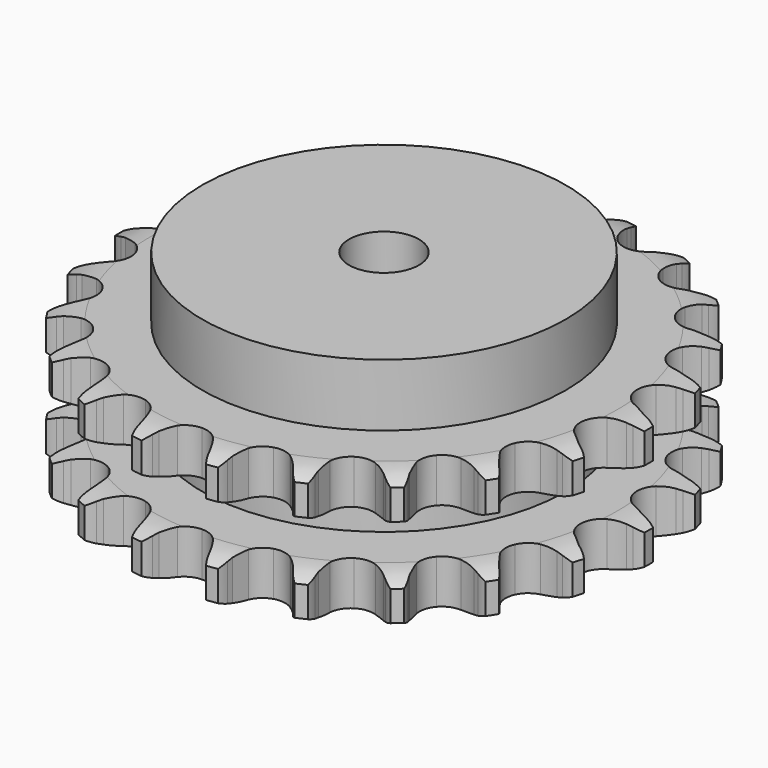
from build123d import *

# Parameters (mm, degrees)
PAD_DEPTH         = 47.7
SKETCH001_R       = 65
PAD001_DEPTH      = 70
SKETCH002_R       = 12.5
POCKET_DEPTH      = 0.0010001
POCKET_DEPTH_BACK = 70.001


with BuildPart() as part:
    # Sprocket → Pad (new body)
    with BuildSketch(Plane.XY):
        with BuildLine():
            ThreePointArc((-13.8466693465, 96.3057006854), (-11.5343062724, 93.9227861729), (-9.8961420657, 91.0345821301))
            Line((-9.8961420657, 91.0345821301), (-9.1277466913, 89.158497466))
            ThreePointArc((-9.1277466913, 89.158497466), (-7.8976005469, 86.6514853664), (-6.3415374532, 84.3326415051))
            ThreePointArc((-6.3415374532, 84.3326415051), (-3.5319132851, 82.040796764), (0, 81.2209621283))
            ThreePointArc((0, 81.2209621283), (3.5319132851, 82.040796764), (6.3415374532, 84.3326415051))
            ThreePointArc((6.3415374532, 84.3326415051), (7.8976005469, 86.6514853664), (9.1277466913, 89.158497466))
            Line((9.1277466913, 89.158497466), (9.8961420657, 91.0345821301))
            ThreePointArc((9.8961420657, 91.0345821301), (11.5343062724, 93.9227861729), (13.8466693465, 96.3057006854))
            ThreePointArc((13.8466693465, 96.3057006854), (15.3940208703, 93.3678429927), (16.1521268066, 90.1351073168))
            Line((16.1521268066, 90.1351073168), (16.36084264, 88.1185352702))
            ThreePointArc((16.36084264, 88.1185352702), (16.8348522932, 85.3665025573), (17.6745900882, 82.7031945314))
            ThreePointArc((17.6745900882, 82.7031945314), (19.7247174572, 79.7126230051), (22.8825893295, 77.9309424723))
            ThreePointArc((22.8825893295, 77.9309424723), (26.5024094181, 77.7225130844), (29.8439113446, 79.1299594095))
            Line((29.8439113446, 79.1299594095), (33.8768602705, 82.9753684431))
            ThreePointArc((33.8768602705, 82.9753684431), (34.4903939213, 83.7826621892), (35.1426843625, 84.5589765028))
            ThreePointArc((35.1426843625, 84.5589765028), (37.528192518, 86.8686637977), (40.4182332385, 88.5035855679))
            ThreePointArc((40.4182332385, 88.5035855679), (41.0752159938, 85.2487924532), (40.8918464254, 81.9334221629))
            Line((40.8918464254, 81.9334221629), (40.5239738023, 79.9397334079))
            ThreePointArc((40.5239738023, 79.9397334079), (40.2034455213, 77.1656334051), (40.2588274554, 74.3736265917))
            ThreePointArc((40.2588274554, 74.3736265917), (41.3833688984, 70.9266065996), (43.9113673596, 68.3274213304))
            ThreePointArc((43.9113673596, 68.3274213304), (47.3258379559, 67.1076136283), (50.9285090276, 67.5166386065))
            Line((50.9285090276, 67.5166386065), (55.881472104, 70.0700685425))
            ThreePointArc((55.881472104, 70.0700685425), (56.6975942622, 70.6718088153), (57.5421753738, 71.2329054907))
            ThreePointArc((57.5421753738, 71.2329054907), (60.4817677946, 72.7769589094), (63.7153522499, 73.5314362988))
            ThreePointArc((63.7153522499, 73.5314362988), (63.4287414013, 70.2233917432), (62.31875184, 67.0939784221))
            Line((62.31875184, 67.0939784221), (61.4040936125, 65.2846897648))
            ThreePointArc((61.4040936125, 65.2846897648), (60.3149946922, 62.7132635562), (59.5815340507, 60.0187497425))
            ThreePointArc((59.5815340507, 60.0187497425), (59.6893859079, 56.3945383442), (61.3827075571, 53.1884188711))
            ThreePointArc((61.3827075571, 53.1884188711), (64.3152085602, 51.0560544204), (67.8871817925, 50.4335212806))
            Line((67.8871817925, 50.4335212806), (73.3588994076, 51.4881084113))
            ThreePointArc((73.3588994076, 51.4881084113), (74.3114927096, 51.8355457927), (75.2799415528, 52.1359681142))
            ThreePointArc((75.2799415528, 52.1359681142), (78.5354699434, 52.7892976316), (81.8506323518, 52.6022073691))
            ThreePointArc((81.8506323518, 52.6022073691), (80.6436474056, 49.5089094688), (78.6969626044, 46.8189795728))
            Line((78.6969626044, 46.8189795728), (77.3096189424, 45.34066882))
            ThreePointArc((77.3096189424, 45.34066882), (75.5401817004, 43.1802380641), (74.0772991022, 40.8015107345))
            ThreePointArc((74.0772991022, 40.8015107345), (73.1597238576, 37.2937199833), (73.8811858454, 33.7404070386))
            ThreePointArc((73.8811858454, 33.7404070386), (76.0941434641, 30.8682373254), (79.3460388293, 29.2645800002))
            Line((79.3460388293, 29.2645800002), (84.8932249633, 28.7348879482))
            ThreePointArc((84.8932249633, 28.7348879482), (85.9051159651, 28.7998751278), (86.9189745742, 28.8152846656))
            ThreePointArc((86.9189745742, 28.8152846656), (90.2266953858, 28.5249614096), (93.3548610051, 27.4114604357))
            ThreePointArc((93.3548610051, 27.4114604357), (91.3252847034, 24.78350979), (88.6996134875, 22.7509854417))
            Line((88.6996134875, 22.7509854417), (86.9519787236, 21.7234165387))
            ThreePointArc((86.9519787236, 21.7234165387), (84.6455524419, 20.1490064868), (82.5717619351, 18.2787759826))
            ThreePointArc((82.5717619351, 18.2787759826), (80.703096078, 15.1715862237), (80.3942498448, 11.5589480897))
            ThreePointArc((80.3942498448, 11.5589480897), (81.7083834139, 8.1796592228), (84.3767516892, 5.7247964913))
            Line((84.3767516892, 5.7247964913), (89.5500063119, 3.6537377564))
            ThreePointArc((89.5500063119, 3.6537377564), (90.5392176225, 3.4310098595), (91.5163492027, 3.1601582246))
            ThreePointArc((91.5163492027, 3.1601582246), (94.6082905669, 1.9497024588), (97.2960340224, 0))
            ThreePointArc((97.2960340224, 0), (94.6082905669, -1.9497024588), (91.5163492027, -3.1601582246))
            Line((91.5163492027, -3.1601582246), (89.5500063119, -3.6537377564))
            ThreePointArc((89.5500063119, -3.6537377564), (86.893443931, -4.5145777653), (84.3767516892, -5.7247964913))
            ThreePointArc((84.3767516892, -5.7247964913), (81.7083834139, -8.1796592228), (80.3942498448, -11.5589480897))
            ThreePointArc((80.3942498448, -11.5589480897), (80.703096078, -15.1715862237), (82.5717619351, -18.2787759826))
            Line((82.5717619351, -18.2787759826), (86.9519787236, -21.7234165387))
            ThreePointArc((86.9519787236, -21.7234165387), (87.8383703256, -22.2158154226), (88.6996134875, -22.7509854417))
            ThreePointArc((88.6996134875, -22.7509854417), (91.3252847034, -24.78350979), (93.3548610051, -27.4114604357))
            ThreePointArc((93.3548610051, -27.4114604357), (90.2266953858, -28.5249614096), (86.9189745742, -28.8152846656))
            Line((86.9189745742, -28.8152846656), (84.8932249633, -28.7348879482))
            ThreePointArc((84.8932249633, -28.7348879482), (82.1017453681, -28.8124177761), (79.3460388293, -29.2645800002))
            ThreePointArc((79.3460388293, -29.2645800002), (76.0941434641, -30.8682373254), (73.8811858454, -33.7404070386))
            ThreePointArc((73.8811858454, -33.7404070386), (73.1597238576, -37.2937199833), (74.0772991022, -40.8015107345))
            Line((74.0772991022, -40.8015107345), (77.3096189424, -45.34066882))
            ThreePointArc((77.3096189424, -45.34066882), (78.0213806599, -46.0628474618), (78.6969626044, -46.8189795728))
            ThreePointArc((78.6969626044, -46.8189795728), (80.6436474056, -49.5089094688), (81.8506323518, -52.6022073691))
            ThreePointArc((81.8506323518, -52.6022073691), (78.5354699434, -52.7892976316), (75.2799415528, -52.1359681142))
            Line((75.2799415528, -52.1359681142), (73.3588994076, -51.4881084113))
            ThreePointArc((73.3588994076, -51.4881084113), (70.6586516733, -50.7760470527), (67.8871817925, -50.4335212806))
            ThreePointArc((67.8871817925, -50.4335212806), (64.3152085602, -51.0560544204), (61.3827075571, -53.1884188711))
            ThreePointArc((61.3827075571, -53.1884188711), (59.6893859079, -56.3945383442), (59.5815340507, -60.0187497425))
            Line((59.5815340507, -60.0187497425), (61.4040936125, -65.2846897648))
            ThreePointArc((61.4040936125, -65.2846897648), (61.883562744, -66.1781415458), (62.31875184, -67.0939784221))
            ThreePointArc((62.31875184, -67.0939784221), (63.4287414013, -70.2233917432), (63.7153522499, -73.5314362988))
            ThreePointArc((63.7153522499, -73.5314362988), (60.4817677946, -72.7769589094), (57.5421753738, -71.2329054907))
            Line((57.5421753738, -71.2329054907), (55.881472104, -70.0700685425))
            ThreePointArc((55.881472104, -70.0700685425), (53.4912142432, -68.6261029739), (50.9285090276, -67.5166386065))
            ThreePointArc((50.9285090276, -67.5166386065), (47.3258379559, -67.1076136283), (43.9113673596, -68.3274213304))
            ThreePointArc((43.9113673596, -68.3274213304), (41.3833688984, -70.9266065996), (40.2588274554, -74.3736265917))
            Line((40.2588274554, -74.3736265917), (40.5239738023, -79.9397334079))
            ThreePointArc((40.5239738023, -79.9397334079), (40.7323066104, -80.9320761784), (40.8918464254, -81.9334221629))
            ThreePointArc((40.8918464254, -81.9334221629), (41.0752159938, -85.2487924532), (40.4182332385, -88.5035855679))
            ThreePointArc((40.4182332385, -88.5035855679), (37.528192518, -86.8686637977), (35.1426843625, -84.5589765028))
            Line((35.1426843625, -84.5589765028), (33.8768602705, -82.9753684431))
            ThreePointArc((33.8768602705, -82.9753684431), (31.9902367595, -80.9164801673), (29.8439113446, -79.1299594095))
            ThreePointArc((29.8439113446, -79.1299594095), (26.5024094181, -77.7225130844), (22.8825893295, -77.9309424723))
            ThreePointArc((22.8825893295, -77.9309424723), (19.7247174572, -79.7126230051), (17.6745900882, -82.7031945314))
            Line((17.6745900882, -82.7031945314), (16.36084264, -88.1185352702))
            ThreePointArc((16.36084264, -88.1185352702), (16.2811612396, -89.1293753206), (16.1521268066, -90.1351073168))
            ThreePointArc((16.1521268066, -90.1351073168), (15.3940208703, -93.3678429927), (13.8466693465, -96.3057006854))
            ThreePointArc((13.8466693465, -96.3057006854), (11.5343062724, -93.9227861729), (9.8961420657, -91.0345821301))
            Line((9.8961420657, -91.0345821301), (9.1277466913, -89.158497466))
            ThreePointArc((9.1277466913, -89.158497466), (7.8976005469, -86.6514853664), (6.3415374532, -84.3326415051))
            ThreePointArc((6.3415374532, -84.3326415051), (3.5319132851, -82.040796764), (0, -81.2209621283))
            ThreePointArc((0, -81.2209621283), (-3.5319132851, -82.040796764), (-6.3415374532, -84.3326415051))
            Line((-6.3415374532, -84.3326415051), (-9.1277466913, -89.158497466))
            ThreePointArc((-9.1277466913, -89.158497466), (-9.4889869871, -90.1059425472), (-9.8961420657, -91.0345821301))
            ThreePointArc((-9.8961420657, -91.0345821301), (-11.5343062724, -93.9227861729), (-13.8466693465, -96.3057006854))
            ThreePointArc((-13.8466693465, -96.3057006854), (-15.3940208703, -93.3678429927), (-16.1521268066, -90.1351073168))
            Line((-16.1521268066, -90.1351073168), (-16.36084264, -88.1185352702))
            ThreePointArc((-16.36084264, -88.1185352702), (-16.8348522932, -85.3665025573), (-17.6745900882, -82.7031945314))
            ThreePointArc((-17.6745900882, -82.7031945314), (-19.7247174572, -79.7126230051), (-22.8825893295, -77.9309424723))
            ThreePointArc((-22.8825893295, -77.9309424723), (-26.5024094181, -77.7225130844), (-29.8439113446, -79.1299594095))
            Line((-29.8439113446, -79.1299594095), (-33.8768602705, -82.9753684431))
            ThreePointArc((-33.8768602705, -82.9753684431), (-34.4903939213, -83.7826621892), (-35.1426843625, -84.5589765028))
            ThreePointArc((-35.1426843625, -84.5589765028), (-37.528192518, -86.8686637977), (-40.4182332385, -88.5035855679))
            ThreePointArc((-40.4182332385, -88.5035855679), (-41.0752159938, -85.2487924532), (-40.8918464254, -81.9334221629))
            Line((-40.8918464254, -81.9334221629), (-40.5239738023, -79.9397334079))
            ThreePointArc((-40.5239738023, -79.9397334079), (-40.2034455213, -77.1656334051), (-40.2588274554, -74.3736265917))
            ThreePointArc((-40.2588274554, -74.3736265917), (-41.3833688984, -70.9266065996), (-43.9113673596, -68.3274213304))
            ThreePointArc((-43.9113673596, -68.3274213304), (-47.3258379559, -67.1076136283), (-50.9285090276, -67.5166386065))
            Line((-50.9285090276, -67.5166386065), (-55.881472104, -70.0700685425))
            ThreePointArc((-55.881472104, -70.0700685425), (-56.6975942622, -70.6718088153), (-57.5421753738, -71.2329054907))
            ThreePointArc((-57.5421753738, -71.2329054907), (-60.4817677946, -72.7769589094), (-63.7153522499, -73.5314362988))
            ThreePointArc((-63.7153522499, -73.5314362988), (-63.4287414013, -70.2233917432), (-62.31875184, -67.0939784221))
            Line((-62.31875184, -67.0939784221), (-61.4040936125, -65.2846897648))
            ThreePointArc((-61.4040936125, -65.2846897648), (-60.3149946922, -62.7132635562), (-59.5815340507, -60.0187497425))
            ThreePointArc((-59.5815340507, -60.0187497425), (-59.6893859079, -56.3945383442), (-61.3827075571, -53.1884188711))
            ThreePointArc((-61.3827075571, -53.1884188711), (-64.3152085602, -51.0560544204), (-67.8871817925, -50.4335212806))
            Line((-67.8871817925, -50.4335212806), (-73.3588994076, -51.4881084113))
            ThreePointArc((-73.3588994076, -51.4881084113), (-74.3114927096, -51.8355457927), (-75.2799415528, -52.1359681142))
            ThreePointArc((-75.2799415528, -52.1359681142), (-78.5354699434, -52.7892976316), (-81.8506323518, -52.6022073691))
            ThreePointArc((-81.8506323518, -52.6022073691), (-80.6436474056, -49.5089094688), (-78.6969626044, -46.8189795728))
            Line((-78.6969626044, -46.8189795728), (-77.3096189424, -45.34066882))
            ThreePointArc((-77.3096189424, -45.34066882), (-75.5401817004, -43.1802380641), (-74.0772991022, -40.8015107345))
            ThreePointArc((-74.0772991022, -40.8015107345), (-73.1597238576, -37.2937199833), (-73.8811858454, -33.7404070386))
            ThreePointArc((-73.8811858454, -33.7404070386), (-76.0941434641, -30.8682373254), (-79.3460388293, -29.2645800002))
            Line((-79.3460388293, -29.2645800002), (-84.8932249633, -28.7348879482))
            ThreePointArc((-84.8932249633, -28.7348879482), (-85.9051159651, -28.7998751278), (-86.9189745742, -28.8152846656))
            ThreePointArc((-86.9189745742, -28.8152846656), (-90.2266953858, -28.5249614096), (-93.3548610051, -27.4114604357))
            ThreePointArc((-93.3548610051, -27.4114604357), (-91.3252847034, -24.78350979), (-88.6996134875, -22.7509854417))
            Line((-88.6996134875, -22.7509854417), (-86.9519787236, -21.7234165387))
            ThreePointArc((-86.9519787236, -21.7234165387), (-84.6455524419, -20.1490064868), (-82.5717619351, -18.2787759826))
            ThreePointArc((-82.5717619351, -18.2787759826), (-80.703096078, -15.1715862237), (-80.3942498448, -11.5589480897))
            ThreePointArc((-80.3942498448, -11.5589480897), (-81.7083834139, -8.1796592228), (-84.3767516892, -5.7247964913))
            Line((-84.3767516892, -5.7247964913), (-89.5500063119, -3.6537377564))
            ThreePointArc((-89.5500063119, -3.6537377564), (-90.5392176225, -3.4310098595), (-91.5163492027, -3.1601582246))
            ThreePointArc((-91.5163492027, -3.1601582246), (-94.6082905669, -1.9497024588), (-97.2960340224, 0))
            ThreePointArc((-97.2960340224, 0), (-94.6082905669, 1.9497024588), (-91.5163492027, 3.1601582246))
            Line((-91.5163492027, 3.1601582246), (-89.5500063119, 3.6537377564))
            ThreePointArc((-89.5500063119, 3.6537377564), (-86.893443931, 4.5145777653), (-84.3767516892, 5.7247964913))
            ThreePointArc((-84.3767516892, 5.7247964913), (-81.7083834139, 8.1796592228), (-80.3942498448, 11.5589480897))
            ThreePointArc((-80.3942498448, 11.5589480897), (-80.703096078, 15.1715862237), (-82.5717619351, 18.2787759826))
            Line((-82.5717619351, 18.2787759826), (-86.9519787236, 21.7234165387))
            ThreePointArc((-86.9519787236, 21.7234165387), (-87.8383703256, 22.2158154226), (-88.6996134875, 22.7509854417))
            ThreePointArc((-88.6996134875, 22.7509854417), (-91.3252847034, 24.78350979), (-93.3548610051, 27.4114604357))
            ThreePointArc((-93.3548610051, 27.4114604357), (-90.2266953858, 28.5249614096), (-86.9189745742, 28.8152846656))
            Line((-86.9189745742, 28.8152846656), (-84.8932249633, 28.7348879482))
            ThreePointArc((-84.8932249633, 28.7348879482), (-82.1017453681, 28.8124177761), (-79.3460388293, 29.2645800002))
            ThreePointArc((-79.3460388293, 29.2645800002), (-76.0941434641, 30.8682373254), (-73.8811858454, 33.7404070386))
            ThreePointArc((-73.8811858454, 33.7404070386), (-73.1597238576, 37.2937199833), (-74.0772991022, 40.8015107345))
            Line((-74.0772991022, 40.8015107345), (-77.3096189424, 45.34066882))
            ThreePointArc((-77.3096189424, 45.34066882), (-78.0213806599, 46.0628474618), (-78.6969626044, 46.8189795728))
            ThreePointArc((-78.6969626044, 46.8189795728), (-80.6436474056, 49.5089094688), (-81.8506323518, 52.6022073691))
            ThreePointArc((-81.8506323518, 52.6022073691), (-78.5354699434, 52.7892976316), (-75.2799415528, 52.1359681142))
            Line((-75.2799415528, 52.1359681142), (-73.3588994076, 51.4881084113))
            ThreePointArc((-73.3588994076, 51.4881084113), (-70.6586516733, 50.7760470527), (-67.8871817925, 50.4335212806))
            ThreePointArc((-67.8871817925, 50.4335212806), (-64.3152085602, 51.0560544204), (-61.3827075571, 53.1884188711))
            ThreePointArc((-61.3827075571, 53.1884188711), (-59.6893859079, 56.3945383442), (-59.5815340507, 60.0187497425))
            Line((-59.5815340507, 60.0187497425), (-61.4040936125, 65.2846897648))
            ThreePointArc((-61.4040936125, 65.2846897648), (-61.883562744, 66.1781415458), (-62.31875184, 67.0939784221))
            ThreePointArc((-62.31875184, 67.0939784221), (-63.4287414013, 70.2233917432), (-63.7153522499, 73.5314362988))
            ThreePointArc((-63.7153522499, 73.5314362988), (-60.4817677946, 72.7769589094), (-57.5421753738, 71.2329054907))
            Line((-57.5421753738, 71.2329054907), (-55.881472104, 70.0700685425))
            ThreePointArc((-55.881472104, 70.0700685425), (-53.4912142432, 68.6261029739), (-50.9285090276, 67.5166386065))
            ThreePointArc((-50.9285090276, 67.5166386065), (-47.3258379559, 67.1076136283), (-43.9113673596, 68.3274213304))
            ThreePointArc((-43.9113673596, 68.3274213304), (-41.3833688984, 70.9266065996), (-40.2588274554, 74.3736265917))
            Line((-40.2588274554, 74.3736265917), (-40.5239738023, 79.9397334079))
            ThreePointArc((-40.5239738023, 79.9397334079), (-40.7323066104, 80.9320761784), (-40.8918464254, 81.9334221629))
            ThreePointArc((-40.8918464254, 81.9334221629), (-41.0752159938, 85.2487924532), (-40.4182332385, 88.5035855679))
            ThreePointArc((-40.4182332385, 88.5035855679), (-37.528192518, 86.8686637977), (-35.1426843625, 84.5589765028))
            Line((-35.1426843625, 84.5589765028), (-33.8768602705, 82.9753684431))
            ThreePointArc((-33.8768602705, 82.9753684431), (-31.9902367595, 80.9164801673), (-29.8439113446, 79.1299594095))
            ThreePointArc((-29.8439113446, 79.1299594095), (-26.5024094181, 77.7225130844), (-22.8825893295, 77.9309424723))
            ThreePointArc((-22.8825893295, 77.9309424723), (-19.7247174572, 79.7126230051), (-17.6745900882, 82.7031945314))
            Line((-17.6745900882, 82.7031945314), (-16.36084264, 88.1185352702))
            ThreePointArc((-16.36084264, 88.1185352702), (-16.2811612396, 89.1293753206), (-16.1521268066, 90.1351073168))
            ThreePointArc((-16.1521268066, 90.1351073168), (-15.3940208703, 93.3678429927), (-13.8466693465, 96.3057006854))
        make_face()
    extrude(amount=PAD_DEPTH)

    # Sketch → Groove (revolve, cut)
    with BuildSketch(Plane.XZ):
        with BuildLine():
            ThreePointArc((83.5257022694, 0), (89.2265793949, 0.6326982121), (94.65, 2.5))
            Line((94.65, 2.5), (94.65, 13.3))
            ThreePointArc((94.65, 13.3), (89.2265793949, 15.1673017879), (83.5257022694, 15.8))
            Line((65, 15.8), (83.5257022694, 15.8))
            Line((65, 31.9), (65, 15.8))
            Line((83.5257022694, 31.9), (65, 31.9))
            ThreePointArc((83.5257022694, 31.9), (89.2265793949, 32.5326982121), (94.65, 34.4))
            Line((94.65, 34.4), (94.65, 45.2))
            ThreePointArc((94.65, 45.2), (89.2265793949, 47.0673017879), (83.5257022694, 47.7))
            Line((83.5257022694, 47.7), (104.65, 47.7))
            Line((104.65, 47.7), (104.65, 0))
            Line((83.5257022694, 0), (104.65, 0))
        make_face()
    revolve(axis=Axis((0, 0, 0), (0, 0, 1)), mode=Mode.SUBTRACT)

    # Sketch001 → Pad001 (join)
    with BuildSketch(Plane.XY):
        Circle(SKETCH001_R)
    extrude(amount=PAD001_DEPTH)

    # Sketch002 → Pocket (cut, two sides)
    with BuildSketch(Plane.XY) as pocket_sk:
        Circle(SKETCH002_R)
    extrude(amount=-POCKET_DEPTH, mode=Mode.SUBTRACT)
    extrude(pocket_sk.sketch, amount=POCKET_DEPTH_BACK, mode=Mode.SUBTRACT)


solid = part.part
